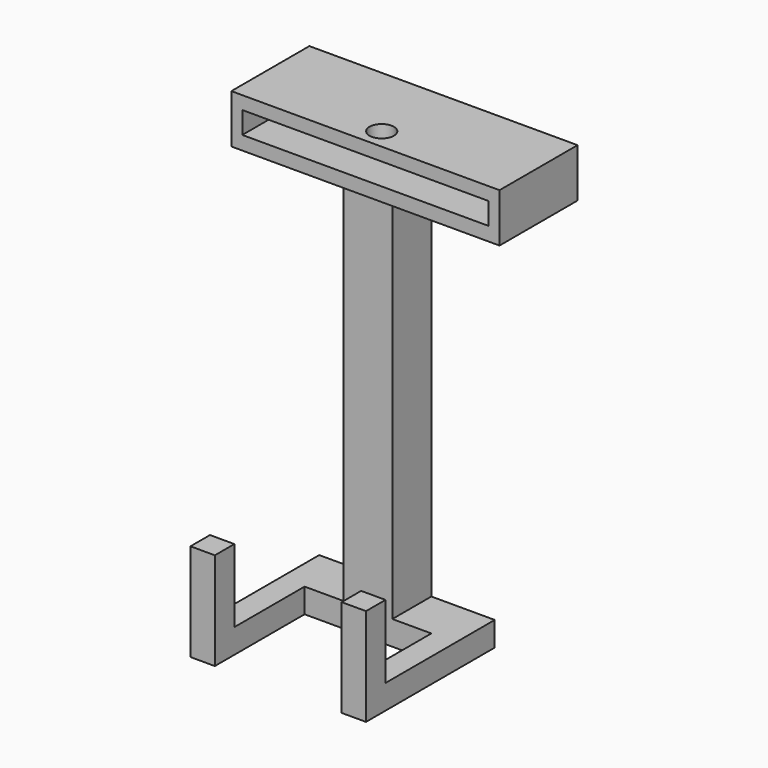
from build123d import *

# Parameters (mm, degrees)
SKETCH_W        = 55
SKETCH_H        = 20
PAD_DEPTH       = 10
SKETCH001_W     = 50.5
SKETCH001_H     = 4.5
POCKET_DEPTH    = 18
SKETCH002_R     = 2.5
POCKET001_DEPTH = 5
SKETCH003_W     = 10
SKETCH003_H     = 10
PAD001_DEPTH    = 80
SKETCH004_W     = 10
SKETCH004_H     = 5
PAD002_DEPTH    = 13
SKETCH005_W     = 10
SKETCH005_H     = 5
PAD003_DEPTH    = 13
SKETCH006_W     = 5
SKETCH006_H     = 5
PAD004_DEPTH    = 23
SKETCH007_W     = 5
SKETCH007_H     = 5
PAD005_DEPTH    = 23
SKETCH008_W     = 5
SKETCH008_H     = 5
PAD006_DEPTH    = 15
SKETCH009_W     = 5
SKETCH009_H     = 5
PAD007_DEPTH    = 15


with BuildPart() as part:
    # Sketch → Pad (new body)
    with BuildSketch(Plane.XY):
        Rectangle(SKETCH_W, SKETCH_H)
    extrude(amount=PAD_DEPTH)

    # Sketch001 (on Face3 of Pad) → Pocket (cut)
    with BuildSketch(Plane.XZ.offset(10)):
        with Locations((0, 5.069511)):
            Rectangle(SKETCH001_W, SKETCH001_H)
    extrude(amount=-POCKET_DEPTH, mode=Mode.SUBTRACT)

    # Sketch002 (on Face5 of Pocket) → Pocket001 (cut)
    with BuildSketch(Plane.XY.offset(10)):
        with Locations((0, -5.825869)):
            Circle(SKETCH002_R)
    extrude(amount=-POCKET001_DEPTH, mode=Mode.SUBTRACT)

    # Sketch003 (on Face4 of Pocket001) → Pad001 (join)
    with BuildSketch(Plane(origin=(0, 0, 0), x_dir=(1, 0, 0), z_dir=(0, 0, -1))):
        with Locations((0, 4.349566)):
            Rectangle(SKETCH003_W, SKETCH003_H)
    extrude(amount=PAD001_DEPTH)

    # Sketch004 (on Face7 of Pad001) → Pad002 (join)
    with BuildSketch(Plane(origin=(-5, 0, 0), x_dir=(0, -1, 0), z_dir=(-1, 0, 0))):
        with Locations((4.349566, -77.5)):
            Rectangle(SKETCH004_W, SKETCH004_H)
    extrude(amount=PAD002_DEPTH)

    # Sketch005 (on Face9 of Pad002) → Pad003 (join)
    with BuildSketch(Plane.YZ.offset(5)):
        with Locations((-4.349566, -77.5)):
            Rectangle(SKETCH005_W, SKETCH005_H)
    extrude(amount=PAD003_DEPTH)

    # Sketch006 (on Face21 of Pad003) → Pad004 (join)
    with BuildSketch(Plane.XZ.offset(9.349566)):
        with Locations((-15.5, -77.5)):
            Rectangle(SKETCH006_W, SKETCH006_H)
    extrude(amount=PAD004_DEPTH)

    # Sketch007 (on Face22 of Pad004) → Pad005 (join)
    with BuildSketch(Plane.XZ.offset(9.349566)):
        with Locations((15.5, -77.5)):
            Rectangle(SKETCH007_W, SKETCH007_H)
    extrude(amount=PAD005_DEPTH)

    # Sketch008 (on Face24 of Pad005) → Pad006 (join)
    with BuildSketch(Plane.XY.offset(-75)):
        with Locations((-15.5, -29.849566)):
            Rectangle(SKETCH008_W, SKETCH008_H)
    extrude(amount=PAD006_DEPTH)

    # Sketch009 (on Face29 of Pad006) → Pad007 (join)
    with BuildSketch(Plane.XY.offset(-75)):
        with Locations((15.5, -29.849566)):
            Rectangle(SKETCH009_W, SKETCH009_H)
    extrude(amount=PAD007_DEPTH)


solid = part.part
